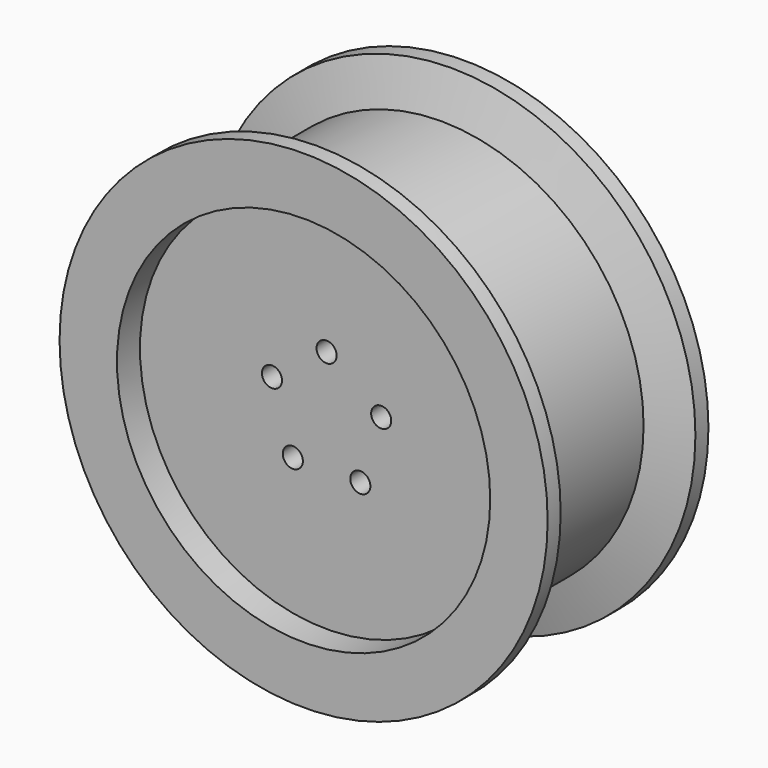
from build123d import *

# Parameters (mm, degrees)
F0_R      = 215.9
F1_DEPTH  = 177.8
F5_R      = 165.1
F6_DEPTH  = 25.4
F7_R      = 165.1
F8_DEPTH  = 25.4
F9_R      = 8.89
F10_DEPTH = 152.401
F11_R     = 179.07
F11_R_2   = 177.8
F12_DEPTH = 158.75


with BuildPart() as f1:
    # F0 (on Front) → F1 (new body)
    with BuildSketch(Plane.XZ):
        Circle(F0_R)
    extrude(amount=-F1_DEPTH)

    # F2 (on Right) → F4 (revolve, cut)
    with BuildSketch(Plane.YZ):
        Polygon((165.534003, 222.889437), (88.9, 222.889437), (88.9, 161.774579), (92.761464, 161.774579), (146.810961, 161.774579), align=None)
        Polygon((88.9, 222.889437), (12.265997, 222.889437), (30.989039, 161.774579), (85.038536, 161.774579), (88.9, 161.774579), align=None)
    revolve(axis=Axis((0, 134.683609, 0), (0, 1, 0)), mode=Mode.SUBTRACT)

    # F5 (on face) → F6 (cut)
    with BuildSketch(Plane.XZ):
        Circle(F5_R)
    extrude(amount=-F6_DEPTH, mode=Mode.SUBTRACT)

    # F7 (on face) → F8 (cut)
    with BuildSketch(Plane(origin=(0, 177.8, 0), x_dir=(-1, 0, 0), z_dir=(0, 1, 0))):
        Circle(F7_R)
    extrude(amount=-F8_DEPTH, mode=Mode.SUBTRACT)

    # F9 (on face) → F10 (cut, through all)
    with BuildSketch(Plane.XZ.offset(-25.4)):
        with Locations((0, 50.8)):
            Circle(F9_R)
        with Locations((-48.313671, 15.698063)):
            Circle(F9_R)
        with Locations((-29.859491, -41.098063)):
            Circle(F9_R)
        with Locations((29.859491, -41.098063)):
            Circle(F9_R)
        with Locations((48.313671, 15.698063)):
            Circle(F9_R)
    extrude(amount=-F10_DEPTH, mode=Mode.SUBTRACT)

    # F11 (on face) → F12 (join)
    with BuildSketch(Plane(origin=(0, 177.8, 0), x_dir=(-1, 0, 0), z_dir=(0, 1, 0))):
        Circle(F11_R)
        Circle(F11_R_2, mode=Mode.SUBTRACT)
    extrude(amount=-F12_DEPTH)


solid = f1.part
